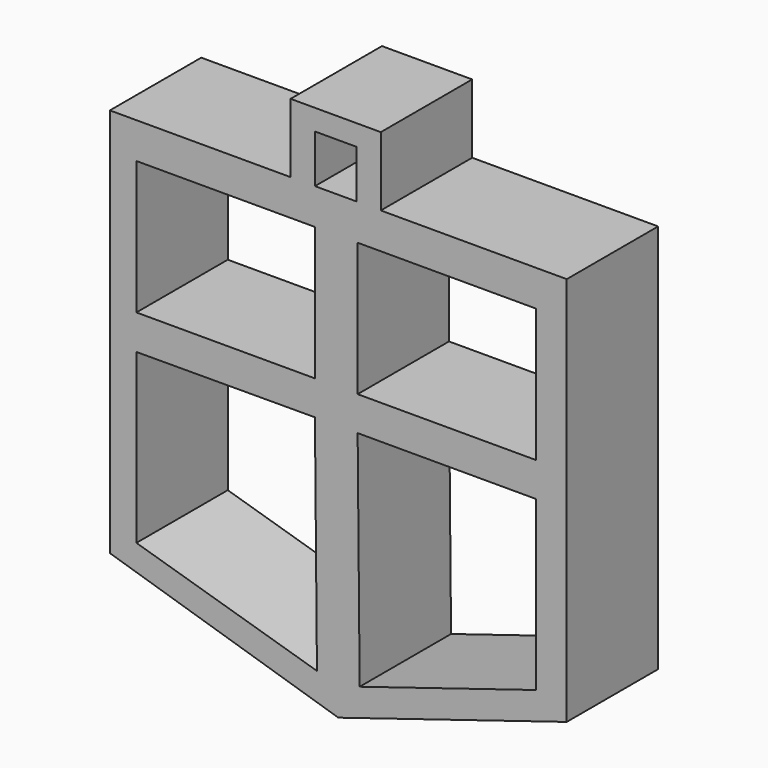
from build123d import *

# Parameters (mm, degrees)
F0_W     = 39.707024
F0_H     = 29.651739
F0_W_2   = 39.7002
F1_DEPTH = 18.542
F2_DEPTH = 25.4


with BuildPart() as f1:
    # F0 (on Front) → F1 (new body)
    with BuildSketch(Plane.XZ):
        Polygon((-50.795936, 40.608853), (-50.795936, 0), (-50.795936, -46.078143), (0, -61.765383), (50.804064, -46.078143), (50.804064, 0), (50.804064, 40.608853), (9.452418, 40.608853), (4.051034, 40.608853), (-5.18992, 40.608853), (-10.609858, 40.608853), align=None)
        Polygon((-44.896944, -42.148899), (-44.896944, -4.764843), (-5.196902, -4.652967), (-4.745259, -54.160614), align=None, mode=Mode.SUBTRACT)
        Polygon((4.754341, -54.160614), (4.301752, -4.652967), (44.001952, -4.652967), (44.001952, -42.041767), align=None, mode=Mode.SUBTRACT)
        with Locations((-25.043432, 17.793344)):
            Rectangle(F0_W, F0_H, mode=Mode.SUBTRACT)
        with Locations((24.151852, 17.793344)):
            Rectangle(F0_W_2, F0_H, mode=Mode.SUBTRACT)
    extrude(amount=F1_DEPTH)

    # F0 (on Front) → F2 (join)
    with BuildSketch(Plane.XZ):
        Polygon((-50.795936, 40.608853), (-50.795936, 0), (-50.795936, -46.078143), (0, -61.765383), (50.804064, -46.078143), (50.804064, 0), (50.804064, 40.608853), (9.452418, 40.608853), (4.051034, 40.608853), (-5.18992, 40.608853), (-10.609858, 40.608853), align=None)
        Polygon((-44.896944, -42.148899), (-44.896944, -4.764843), (-5.196902, -4.652967), (-4.745259, -54.160614), align=None, mode=Mode.SUBTRACT)
        Polygon((4.754341, -54.160614), (4.301752, -4.652967), (44.001952, -4.652967), (44.001952, -42.041767), align=None, mode=Mode.SUBTRACT)
        with Locations((-25.043432, 17.793344)):
            Rectangle(F0_W, F0_H, mode=Mode.SUBTRACT)
        with Locations((24.151852, 17.793344)):
            Rectangle(F0_W_2, F0_H, mode=Mode.SUBTRACT)
        Polygon((-10.609858, 55.941623), (-10.609858, 40.608853), (-5.18992, 40.608853), (-5.18992, 51.311865), (4.051034, 51.311865), (4.051034, 40.608853), (9.452418, 40.608853), (9.452418, 55.941623), align=None)
    extrude(amount=F2_DEPTH)


solid = f1.part
